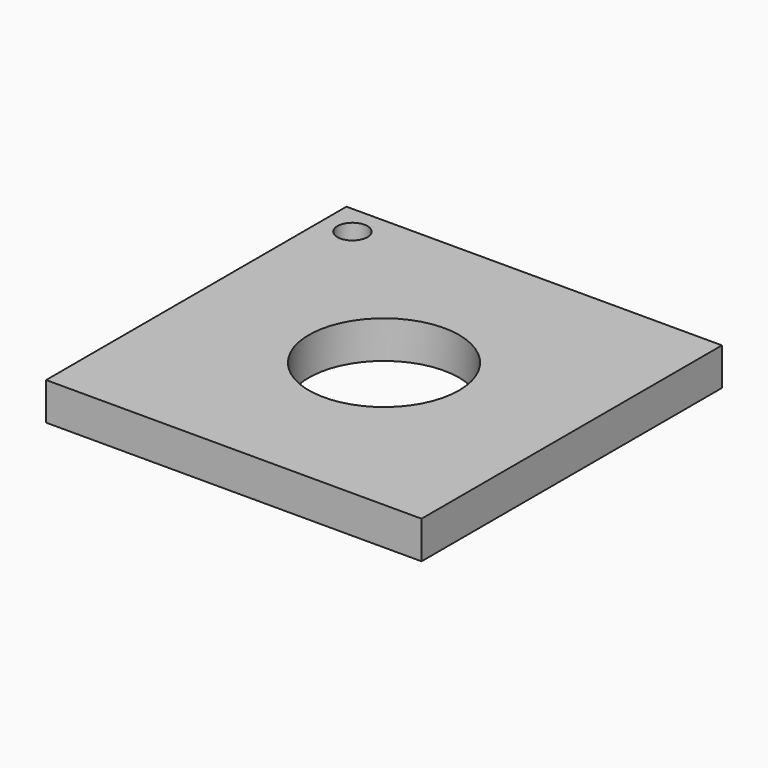
from build123d import *

# Parameters (mm, degrees)
F0_W     = 63.5
F0_H     = 63.5
F1_DEPTH = 6.35
F2_R     = 12.7
F3_DEPTH = 6.35
F4_R     = 2.54
F5_DEPTH = 6.35


with BuildPart() as f1:
    # F0 (on Top) → F1 (new body)
    with BuildSketch(Plane.XY):
        Rectangle(F0_W, F0_H)
    extrude(amount=F1_DEPTH)

    # F2 (on Top) → F3 (cut, through all)
    with BuildSketch(Plane.XY):
        Circle(F2_R)
    extrude(amount=F3_DEPTH, mode=Mode.SUBTRACT)

    # F4 (on Top) → F5 (cut, through all)
    with BuildSketch(Plane.XY):
        with Locations((-26.67, 26.67)):
            Circle(F4_R)
    extrude(amount=F5_DEPTH, mode=Mode.SUBTRACT)


solid = f1.part
